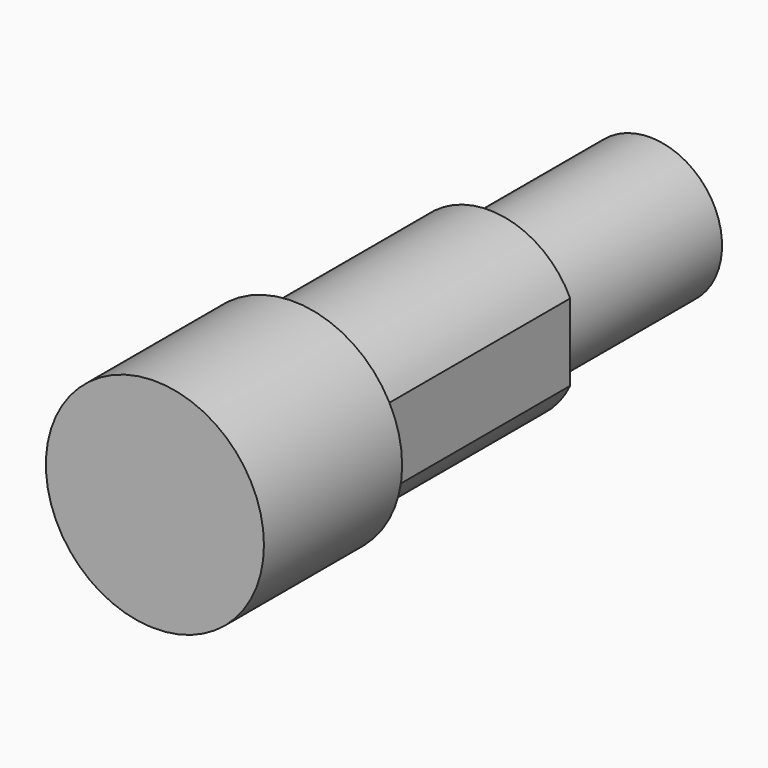
from build123d import *

# Parameters (mm, degrees)
F0_R     = 6.25
F1_DEPTH = 17
F2_R     = 7.575
F3_DEPTH = 12
F5_DEPTH = 17
F6_R     = 5
F7_DEPTH = 14


with BuildPart() as f1:
    # F0 (on Front) → F1 (new body)
    with BuildSketch(Plane.XZ):
        Circle(F0_R)
    extrude(amount=F1_DEPTH)

    # F2 (on face) → F3 (join)
    with BuildSketch(Plane.XZ.offset(17)):
        Circle(F2_R)
    extrude(amount=F3_DEPTH)

    # F4 (on face) → F5 (cut, through all)
    with BuildSketch(Plane(origin=(0, 0, 0), x_dir=(-1, 0, 0), z_dir=(0, 1, 0))):
        with BuildLine():
            Line((-5.65, -2.6720778432), (-5.65, 2.6720778432))
            ThreePointArc((-5.65, 2.6720778432), (-6.25, 0), (-5.65, -2.6720778432))
        make_face()
        with BuildLine():
            ThreePointArc((6.25, 0), (6.0981554588, 1.3693063938), (5.65, 2.6720778432))
            Line((5.65, 2.6720778432), (5.65, -2.6720778432))
            ThreePointArc((5.65, -2.6720778432), (6.0981554588, -1.3693063938), (6.25, 0))
        make_face()
    extrude(amount=-F5_DEPTH, mode=Mode.SUBTRACT)

    # F6 (on face) → F7 (join)
    with BuildSketch(Plane(origin=(0, 0, 0), x_dir=(-1, 0, 0), z_dir=(0, 1, 0))):
        Circle(F6_R)
    extrude(amount=F7_DEPTH)


solid = f1.part
